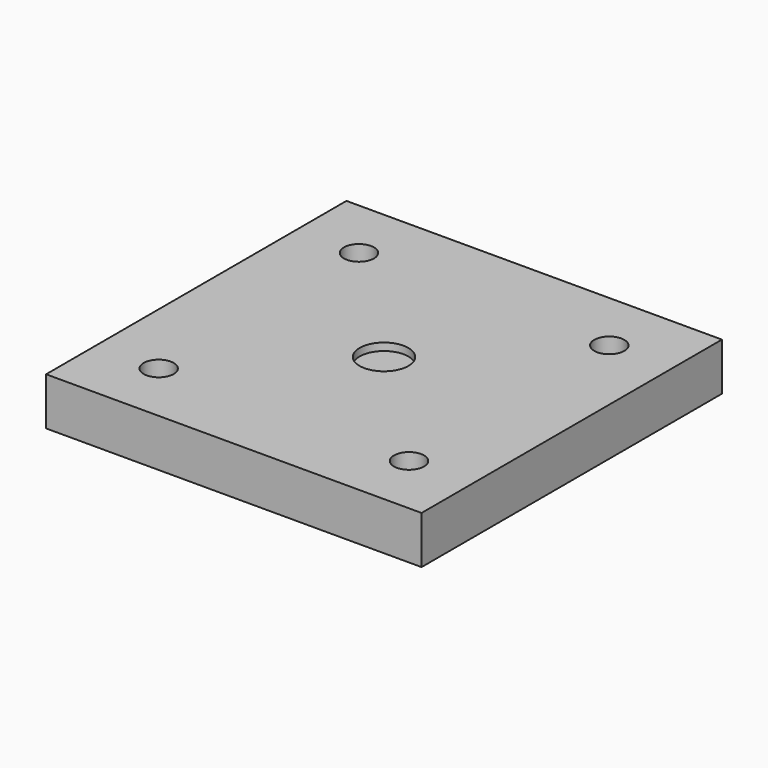
from build123d import *

# Parameters (mm, degrees)
F0_W     = 150
F0_H     = 150
F0_R     = 6
F1_DEPTH = 19.05
F2_R     = 9.75
F3_DEPTH = 3


with BuildPart() as f1:
    # F0 (on Top) → F1 (new body)
    with BuildSketch(Plane.XY):
        with Locations((75, 75)):
            Rectangle(F0_W, F0_H)
        with Locations((25, 25)):
            Circle(F0_R, mode=Mode.SUBTRACT)
        with Locations((125, 25)):
            Circle(F0_R, mode=Mode.SUBTRACT)
        with Locations((25, 125)):
            Circle(F0_R, mode=Mode.SUBTRACT)
        with Locations((125, 125)):
            Circle(F0_R, mode=Mode.SUBTRACT)
    extrude(amount=F1_DEPTH)

    # F2 (on face) → F3 (cut)
    with BuildSketch(Plane.XY.offset(19.05)):
        with Locations((75, 75)):
            Circle(F2_R)
    extrude(amount=-F3_DEPTH, mode=Mode.SUBTRACT)


solid = f1.part
